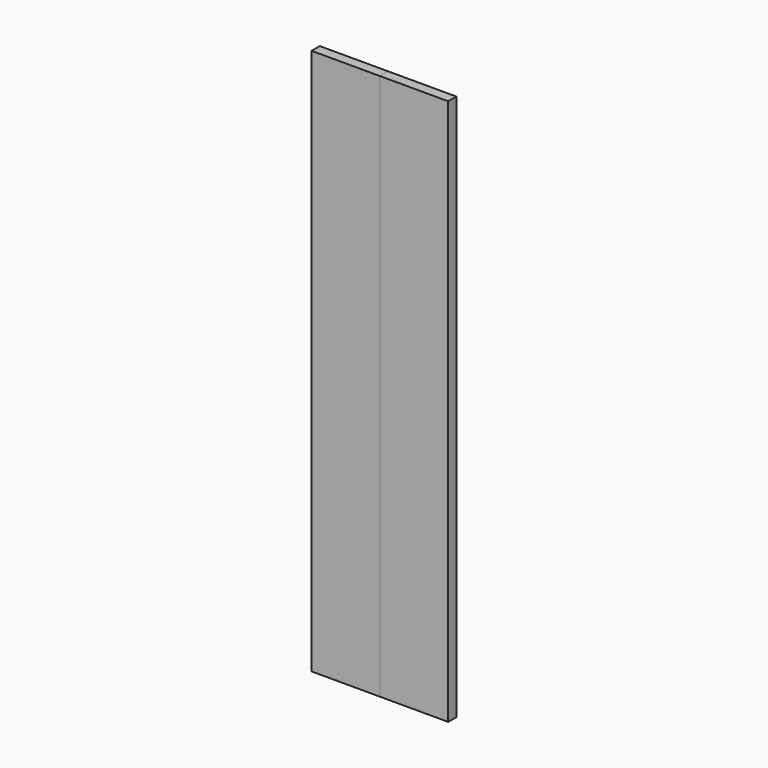
from build123d import *

# Parameters (mm, degrees)
F0_W     = 18
F0_H     = 200
F1_DEPTH = 100
F2_SIZE  = 3


with BuildPart() as f1:
    # F0 (on Right) → F1 (new body)
    with BuildSketch(Plane.YZ):
        with Locations((-31.8543244302, 75.3988552839)):
            Rectangle(F0_W, F0_H)
    extrude(amount=F1_DEPTH)

    # F2
    f2_edges = [f1.edges().sort_by_distance(p)[0] for p in [
        (50, -22.854324, 175.398855),
        (100, -22.854324, 75.398855),
        (0, -22.854324, 75.398855),
        (50, -22.854324, -24.601145),
    ]]
    chamfer(f2_edges, length=F2_SIZE)

    # F3: F1 across face


with BuildPart() as f1_1:
    add(f1.part)
    add(f1.part.mirror(Plane(origin=(50, -33.3543244302, 175.3988552839), x_dir=(1, 0, 0), z_dir=(0, 0, 1))))

    # F4: F1 across face


with BuildPart() as f1_2:
    add(f1_1.part)
    add(f1_1.part.mirror(Plane(origin=(50, -33.3543244302, 375.3988552839), x_dir=(1, 0, 0), z_dir=(0, 0, 1))))


with BuildPart() as f5_1:
    # F5: instance of F1
    add(f1_2.part.mirror(Plane(origin=(100, -33.3543244302, 375.3988552839), x_dir=(0, 1, 0), z_dir=(1, 0, 0))))


solid = Compound([f1_2.part, f5_1.part])
